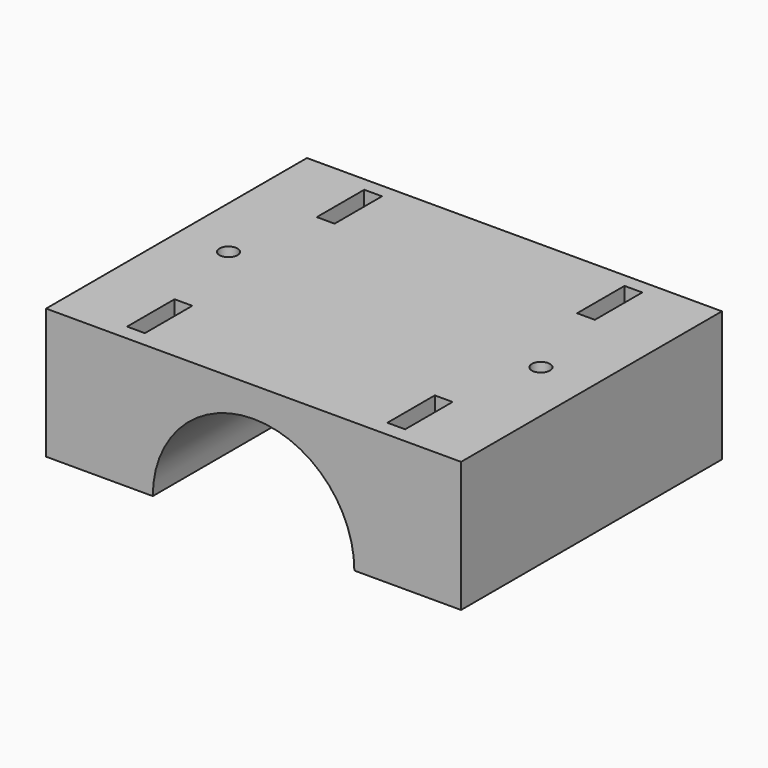
from build123d import *

# Parameters (mm, degrees)
SKETCH_W        = 70
SKETCH_H        = 55
PAD_DEPTH       = 22
SKETCH001_R     = 17
POCKET_DEPTH    = 55.001
SKETCH002_R     = 1.53
SKETCH002_W     = 3
SKETCH002_H     = 10
POCKET001_DEPTH = 205.4022
SKETCH003_R     = 4
POCKET002_DEPTH = 7


with BuildPart() as part:
    # Sketch → Pad (new body)
    with BuildSketch(Plane.XY):
        with Locations((0, -17.338946)):
            Rectangle(SKETCH_W, SKETCH_H)
    extrude(amount=PAD_DEPTH)

    # Sketch001 (on Face3 of Pad) → Pocket (cut, through all)
    with BuildSketch(Plane.XZ.offset(44.838946)):
        Circle(SKETCH001_R)
    extrude(amount=-POCKET_DEPTH, mode=Mode.SUBTRACT)

    # Sketch002 (on Face2 of Pocket) → Pocket001 (cut, through all)
    with BuildSketch(Plane(origin=(0, 0, 0), x_dir=(1, 0, 0), z_dir=(0, 0, -1))):
        with Locations((-26.352302, 17.193167)):
            Circle(SKETCH002_R)
        with Locations((-21.951078, -2.806833)):
            Rectangle(SKETCH002_W, SKETCH002_H)
        with Locations((-21.951078, 37.193167)):
            Rectangle(SKETCH002_W, SKETCH002_H)
    pocket001 = extrude(amount=-POCKET001_DEPTH, mode=Mode.SUBTRACT)

    # Mirrored: Pocket001 across Sketch002 V_Axis
    add(pocket001.mirror(Plane(origin=(0, 0, 0), x_dir=(0, 0, -1), z_dir=(1, 0, 0))), mode=Mode.SUBTRACT)

    # Sketch003 (on Face2 of Mirrored) → Pocket002 (cut)
    with BuildSketch(Plane(origin=(0, 0, 0), x_dir=(1, 0, 0), z_dir=(0, 0, -1))):
        with Locations((-26.352302, 17.193167)):
            Circle(SKETCH003_R)
    pocket002 = extrude(amount=-POCKET002_DEPTH, mode=Mode.SUBTRACT)

    # Mirrored001: Pocket002 across Sketch003 V_Axis
    add(pocket002.mirror(Plane(origin=(0, 0, 0), x_dir=(0, 0, -1), z_dir=(1, 0, 0))), mode=Mode.SUBTRACT)


solid = part.part
